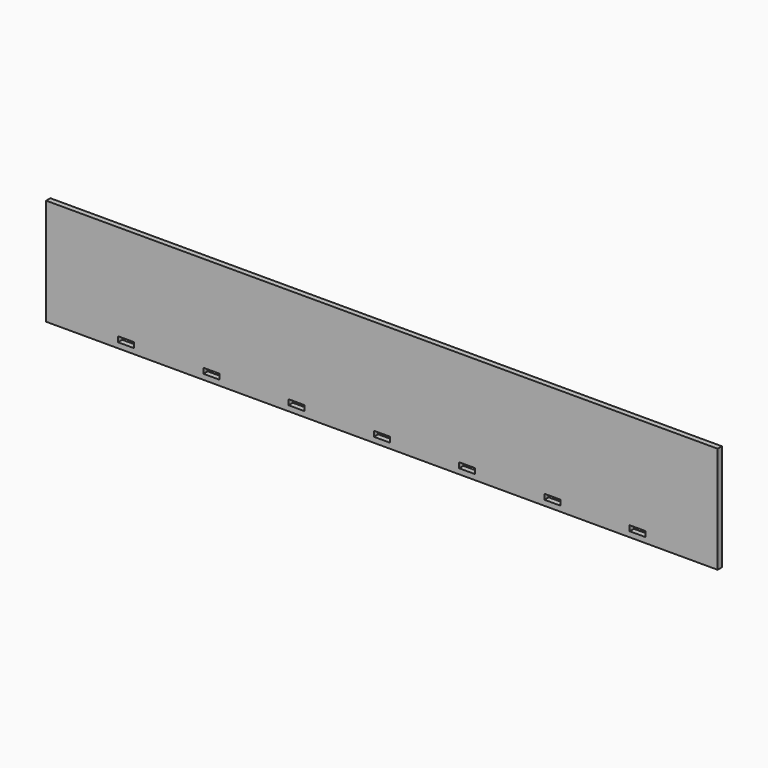
from build123d import *

# Parameters (mm, degrees)
F0_W     = 400.05
F0_H     = 63.5
F1_DEPTH = 3.175
F2_W     = 9.525
F2_H     = 3.175
F3_DEPTH = 25.4


with BuildPart() as f1:
    # F0 (on Front) → F1 (new body)
    with BuildSketch(Plane.XZ):
        Rectangle(F0_W, F0_H)
    extrude(amount=F1_DEPTH)

    # F2 (on face) → F3 (cut)
    with BuildSketch(Plane.XZ.offset(3.175)):
        with Locations((152.4, -26.9875)):
            Rectangle(F2_W, F2_H)
        with Locations((101.6, -26.9875)):
            Rectangle(F2_W, F2_H)
        with Locations((50.8, -26.9875)):
            Rectangle(F2_W, F2_H)
        with Locations((-101.6, -26.9875)):
            Rectangle(F2_W, F2_H)
        with Locations((-50.8, -26.9875)):
            Rectangle(F2_W, F2_H)
        with Locations((-152.4, -26.9875)):
            Rectangle(F2_W, F2_H)
        with Locations((0, -26.9875)):
            Rectangle(F2_W, F2_H)
    extrude(amount=-F3_DEPTH, mode=Mode.SUBTRACT)


solid = f1.part
